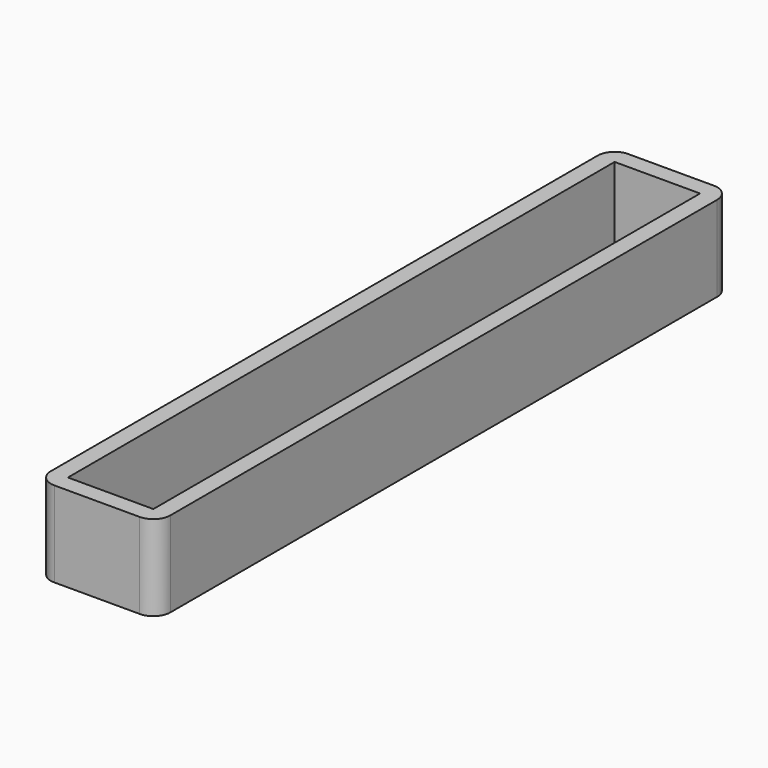
from build123d import *

# Parameters (mm, degrees)
F0_W     = 5
F0_H     = 40
F1_DEPTH = 2.5


with BuildPart() as f1:
    # F0 (on Top) → F1 (new body, symmetric)
    with BuildSketch(Plane.XY):
        with BuildLine():
            Line((-2.5, -21), (2.5, -21))
            ThreePointArc((2.5, -21), (3.207107, -20.707107), (3.5, -20))
            Line((3.5, -20), (3.5, 20))
            ThreePointArc((3.5, 20), (3.207107, 20.707107), (2.5, 21))
            Line((2.5, 21), (-2.5, 21))
            ThreePointArc((-2.5, 21), (-3.207107, 20.707107), (-3.5, 20))
            Line((-3.5, 20), (-3.5, -20))
            ThreePointArc((-3.5, -20), (-3.207107, -20.707107), (-2.5, -21))
        make_face()
        Rectangle(F0_W, F0_H, mode=Mode.SUBTRACT)
    extrude(amount=F1_DEPTH, both=True)


solid = f1.part
